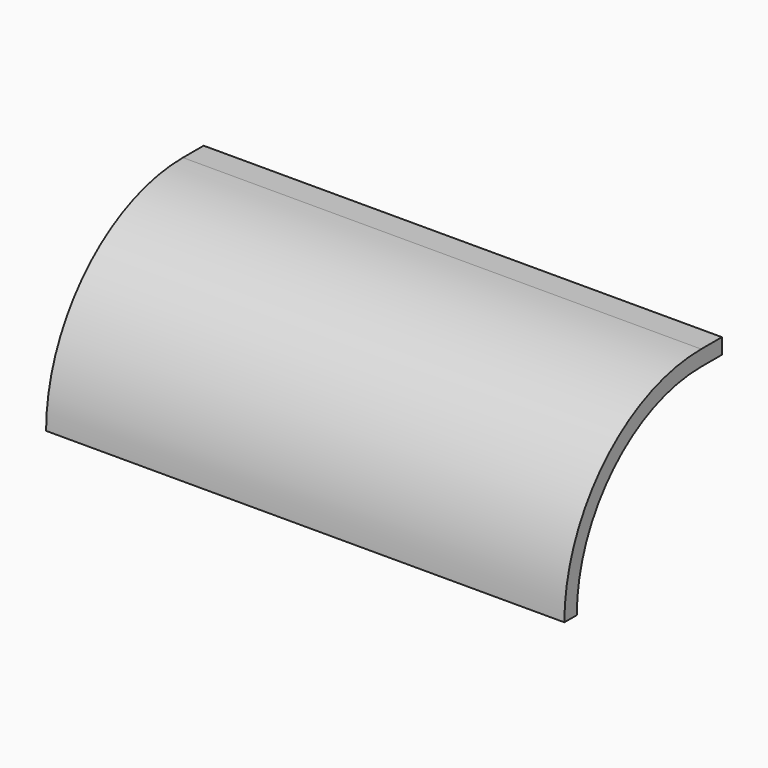
from build123d import *

# Parameters (mm, degrees)
F0_W     = 10
F0_H     = 6
F1_DEPTH = 200


with BuildPart() as f1:
    # F0 (on Right) → F1 (new body)
    with BuildSketch(Plane.YZ):
        with BuildLine():
            Line((-76, 0), (-70, 0))
            ThreePointArc((-70, 0), (-52.426407, 42.426407), (-10, 60))
            Line((-10, 60), (-10, 66))
            ThreePointArc((-10, 66), (-56.669048, 46.669048), (-76, 0))
        make_face()
        with Locations((-5, 63)):
            Rectangle(F0_W, F0_H)
    extrude(amount=F1_DEPTH)


solid = f1.part
